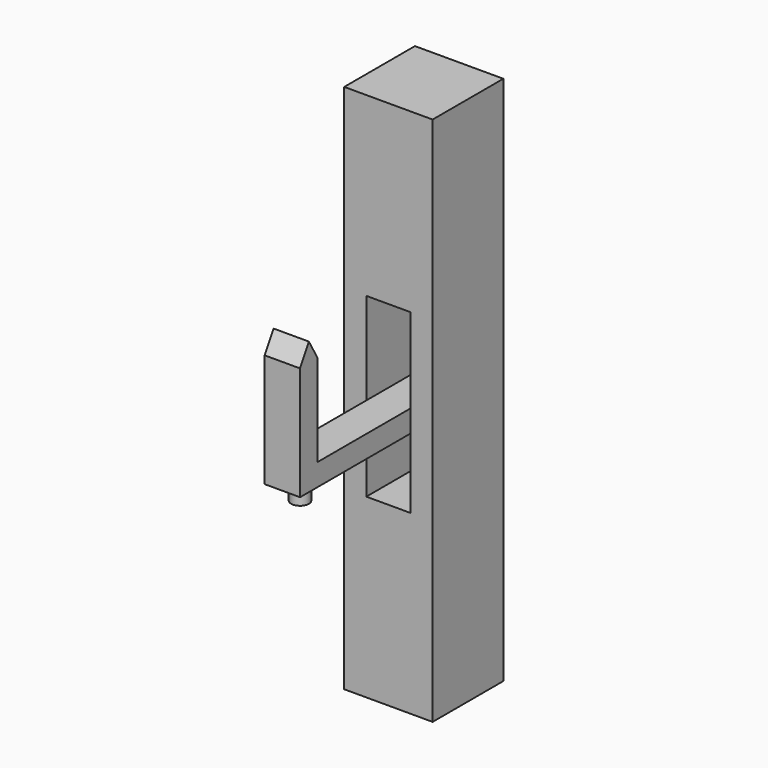
from build123d import *

# Parameters (mm, degrees)
F0_W     = 20
F0_H     = 120
F0_W_2   = 10
F0_H_2   = 40
F1_DEPTH = 20
F3_DEPTH = 4
F4_R     = 2
F5_DEPTH = 4


with BuildPart() as f1:
    # F0 (on Front) → F1 (new body)
    with BuildSketch(Plane.XZ):
        Rectangle(F0_W, F0_H)
        Rectangle(F0_W_2, F0_H_2, mode=Mode.SUBTRACT)
    extrude(amount=F1_DEPTH)


with BuildPart() as f3:
    # F2 (on Right) → F3 (new body, symmetric)
    with BuildSketch(Plane.YZ):
        Polygon((-50, -5), (0, -5), (0, 0), (-45, 0), (-45, 20.669873), (-47.5, 25), (-50, 20.669873), align=None)
    extrude(amount=F3_DEPTH, both=True)

    # F4 (on face) → F5 (join)
    with BuildSketch(Plane(origin=(0, 0, -5), x_dir=(1, 0, 0), z_dir=(0, 0, -1))):
        with Locations((0, 45)):
            Circle(F4_R)
    extrude(amount=F5_DEPTH)


solid = Compound([f1.part, f3.part])
